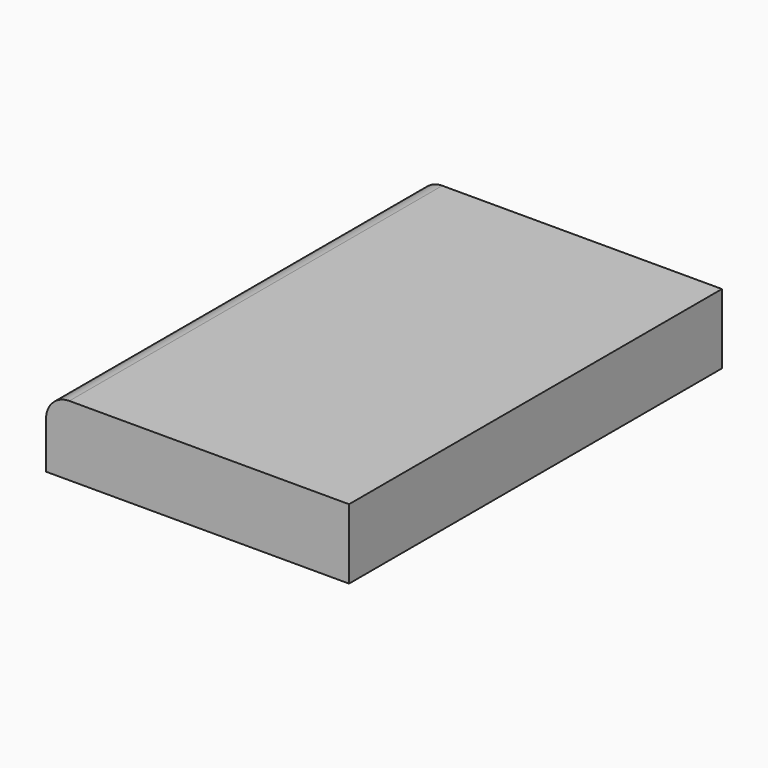
from build123d import *

# Parameters (mm, degrees)
F1_DEPTH = 63.5


with BuildPart() as f1:
    # F0 (on Front) → F1 (new body, symmetric)
    with BuildSketch(Plane.XZ):
        with BuildLine():
            Line((-41.275, -9.525), (41.275, -9.525))
            Line((41.275, -9.525), (41.275, 9.525))
            Line((41.275, 9.525), (22.504395, 9.525))
            Line((22.504395, 9.525), (-34.925, 9.525))
            ThreePointArc((-34.925, 9.525), (-39.415128, 7.665128), (-41.275, 3.175))
            Line((-41.275, 3.175), (-41.275, -9.525))
        make_face()
    extrude(amount=F1_DEPTH, both=True)


solid = f1.part
